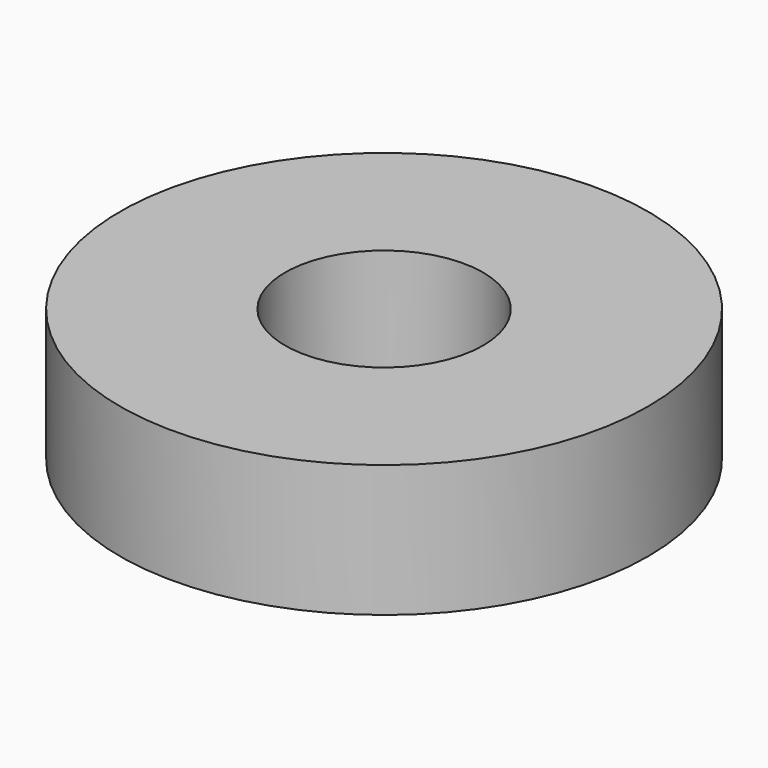
from build123d import *

# Parameters (mm, degrees)
SKETCH_R   = 4
SKETCH_R_2 = 1.5
PAD_DEPTH  = 2


with BuildPart() as part:
    # Sketch → Pad (new body)
    with BuildSketch(Plane.XY):
        Circle(SKETCH_R)
        Circle(SKETCH_R_2, mode=Mode.SUBTRACT)
    extrude(amount=PAD_DEPTH)


solid = part.part
